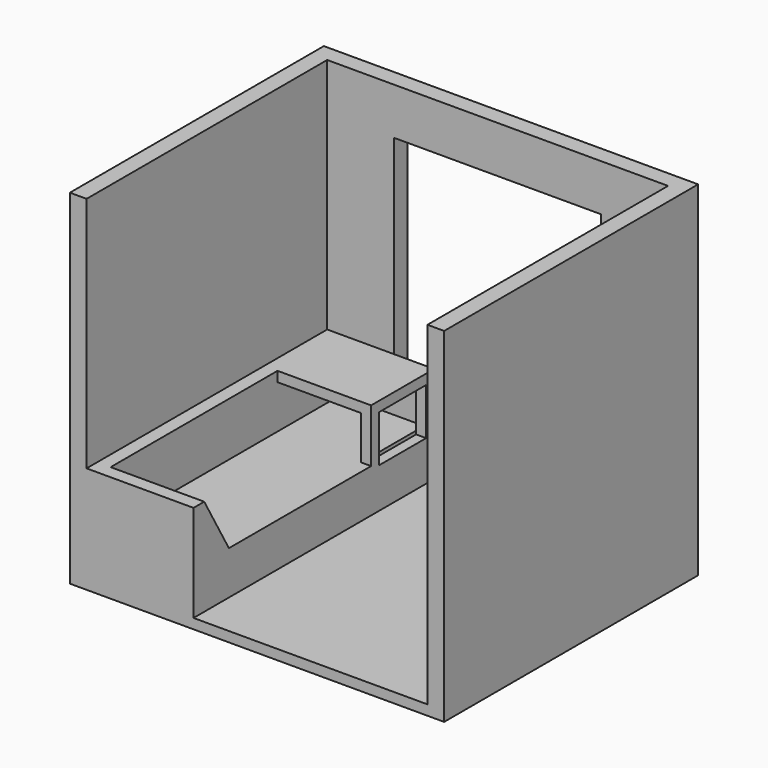
from build123d import *

# Parameters (mm, degrees)
F1_DEPTH  = 2540
F2_W      = 2844.8
F2_H      = 2413
F3_DEPTH  = 76.2
F4_W      = 1574.8
F4_H      = 1574.8
F5_DEPTH  = 127.001
F6_W      = 2286
F6_H      = 736.6
F7_DEPTH  = 812.8
F9_DEPTH  = 711.2
F10_W     = 635
F10_H     = 330.2
F11_DEPTH = 598.856606
F12_W     = 446.456606
F12_H     = 355.6
F13_DEPTH = 76.2


with BuildPart() as f1:
    # F0 (on Top) → F1 (new body)
    with BuildSketch(Plane.XY):
        Polygon((-1445.033048, -1496.123811), (-1445.033048, 789.876189), (1145.766952, 789.876189), (1145.766952, -1496.123811), (1272.766952, -1496.123811), (1272.766952, 916.876189), (-1572.033048, 916.876189), (-1572.033048, -1496.123811), align=None)
    extrude(amount=F1_DEPTH)

    # F2 (on face) → F3 (join)
    with BuildSketch(Plane(origin=(0, 0, 0), x_dir=(1, 0, 0), z_dir=(0, 0, -1))):
        with Locations((-149.633048, 289.623811)):
            Rectangle(F2_W, F2_H)
    extrude(amount=F3_DEPTH)

    # F4 (on face) → F5 (cut, through all)
    with BuildSketch(Plane.XZ.offset(-789.876189)):
        with Locations((-149.633048, 1397)):
            Rectangle(F4_W, F4_H)
    extrude(amount=-F5_DEPTH, mode=Mode.SUBTRACT)

    # F6 (on face) → F7 (join)
    with BuildSketch(Plane.YZ.offset(-1445.033048)):
        with Locations((-353.123811, 368.3)):
            Rectangle(F6_W, F6_H)
    extrude(amount=F7_DEPTH)

    # F8 (on face) → F9 (cut)
    with BuildSketch(Plane.YZ.offset(-632.233048)):
        Polygon((191.019583, 736.6), (-1394.523811, 736.6), (-1159.888661, 330.2), (191.019583, 330.2), align=None)
    extrude(amount=-F9_DEPTH, mode=Mode.SUBTRACT)

    # F10 (on face) → F11 (cut, through all)
    with BuildSketch(Plane.XZ.offset(-191.019583)):
        with Locations((-1025.933048, 495.3)):
            Rectangle(F10_W, F10_H)
    extrude(amount=-F11_DEPTH, mode=Mode.SUBTRACT)

    # F12 (on face) → F13 (cut, through all)
    with BuildSketch(Plane.YZ.offset(-632.233048)):
        with Locations((490.447886, 482.6)):
            Rectangle(F12_W, F12_H)
    extrude(amount=-F13_DEPTH, mode=Mode.SUBTRACT)


solid = f1.part
